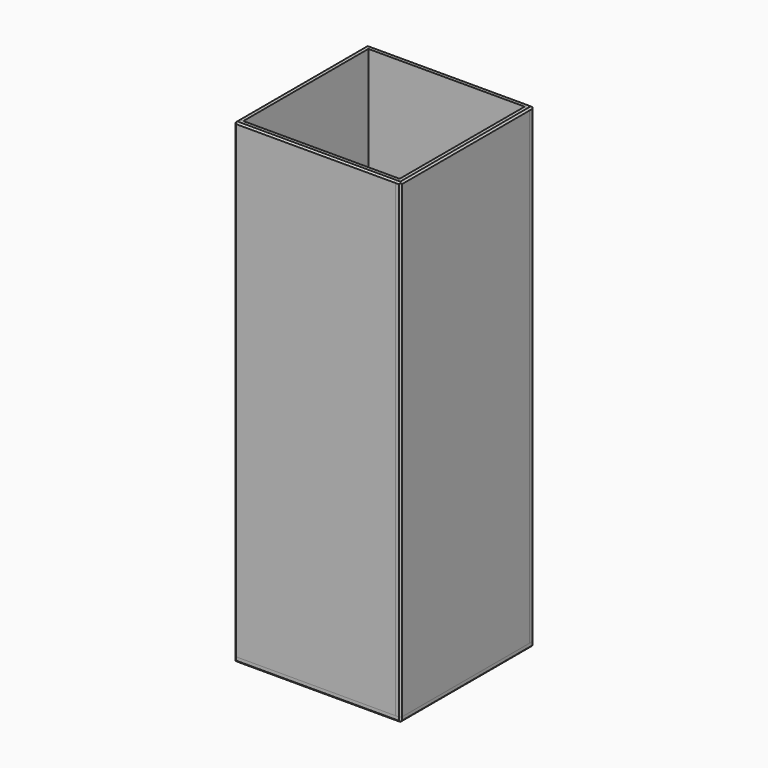
from build123d import *

# Parameters (mm, degrees)
F1_DEPTH   = 19.05
F3_DEPTH   = 19.05
F5_DEPTH   = 19.05
F7_DEPTH   = 19.05
F9_DEPTH   = 19.05
F10_SIZE   = 6.35
F10_2_SIZE = 6.35
F10_3_SIZE = 6.35
F10_4_SIZE = 6.35
F11_SIZE   = 6.35
F12_SIZE   = 6.35
F13_SIZE   = 6.35
F14_SIZE   = 6.35
F15_SIZE   = 6.35
F16_W      = 38.1
F16_H      = 88.9
F17_DEPTH  = 304.8
F19_DEPTH  = 19.05


with BuildPart() as f1:
    # F0 (on Top) → F1 (new body)
    with BuildSketch(Plane.XY):
        Polygon((-307.975, -314.325), (307.975, -314.325), (314.325, -307.975), (314.325, 307.975), (307.975, 314.325), (-307.975, 314.325), (-314.325, 307.975), (-314.325, -307.975), align=None)
    extrude(amount=-F1_DEPTH)

    # F15 (call 1 of 4: OpenCascade refuses the feature's edges together)
    f15_edges = [f1.edges().sort_by_distance(p)[0] for p in [
        (0, -314.325, -19.05),
    ]]
    chamfer(f15_edges, length=F15_SIZE)

    # F15#2 (call 2 of 4)
    f15_2_edges = [f1.edges().sort_by_distance(p)[0] for p in [
        (314.325, 0, -19.05),
    ]]
    chamfer(f15_2_edges, length=F15_SIZE)

    # F15#3 (call 3 of 4)
    f15_3_edges = [f1.edges().sort_by_distance(p)[0] for p in [
        (0, 314.325, -19.05),
    ]]
    chamfer(f15_3_edges, length=F15_SIZE)

    # F15#4 (call 4 of 4)
    f15_4_edges = [f1.edges().sort_by_distance(p)[0] for p in [
        (-314.325, 0, -19.05),
    ]]
    chamfer(f15_4_edges, length=F15_SIZE)

    # F16 (on face) → F17 (join)
    with BuildSketch(Plane.XY):
        with Locations((-149.225, 123.825)):
            Rectangle(F16_W, F16_H)
        with Locations((149.225, 123.825)):
            Rectangle(F16_W, F16_H)
        with Locations((-149.225, -123.825)):
            Rectangle(F16_W, F16_H)
        with Locations((149.225, -123.825)):
            Rectangle(F16_W, F16_H)
    extrude(amount=F17_DEPTH)


with BuildPart() as f3:
    # F2 (on face) → F3 (new body)
    with BuildSketch(Plane.XZ.offset(314.325)):
        Polygon((-314.325, 1771.65), (-314.325, 0), (295.275, 0), (295.275, 1778), (-307.975, 1778), align=None)
    extrude(amount=-F3_DEPTH)

    # F10#2
    f10_2_edges = [f3.edges().sort_by_distance(p)[0] for p in [
        (-6.35, -314.325, 1778),
    ]]
    chamfer(f10_2_edges, length=F10_2_SIZE)

    # F11
    f11_edges = [f3.edges().sort_by_distance(p)[0] for p in [
        (-314.325, -314.325, 885.825),
    ]]
    chamfer(f11_edges, length=F11_SIZE)


with BuildPart() as f5:
    # F4 (on face) → F5 (new body)
    with BuildSketch(Plane(origin=(0, 314.325, 0), x_dir=(-1, 0, 0), z_dir=(0, 1, 0))):
        Polygon((-314.325, 1771.65), (-314.325, 0), (295.275, 0), (295.275, 1778), (-307.975, 1778), align=None)
    extrude(amount=-F5_DEPTH)

    # F10#3
    f10_3_edges = [f5.edges().sort_by_distance(p)[0] for p in [
        (6.35, 314.325, 1778),
    ]]
    chamfer(f10_3_edges, length=F10_3_SIZE)

    # F13
    f13_edges = [f5.edges().sort_by_distance(p)[0] for p in [
        (314.325, 314.325, 885.825),
    ]]
    chamfer(f13_edges, length=F13_SIZE)


with BuildPart() as f7:
    # F6 (on face) → F7 (new body)
    with BuildSketch(Plane.YZ.offset(314.325)):
        Polygon((295.275, 1778), (-307.975, 1778), (-314.325, 1771.65), (-314.325, 0), (295.275, 0), align=None)
    extrude(amount=-F7_DEPTH)

    # F10
    f10_edges = [f7.edges().sort_by_distance(p)[0] for p in [
        (314.325, -6.35, 1778),
    ]]
    chamfer(f10_edges, length=F10_SIZE)

    # F12
    f12_edges = [f7.edges().sort_by_distance(p)[0] for p in [
        (314.325, -314.325, 885.825),
    ]]
    chamfer(f12_edges, length=F12_SIZE)


with BuildPart() as f9:
    # F8 (on face) → F9 (new body)
    with BuildSketch(Plane(origin=(-314.325, 0, 0), x_dir=(0, -1, 0), z_dir=(-1, 0, 0))):
        Polygon((295.275, 1778), (-307.975, 1778), (-314.325, 1771.65), (-314.325, 0), (295.275, 0), align=None)
    extrude(amount=-F9_DEPTH)

    # F10#4
    f10_4_edges = [f9.edges().sort_by_distance(p)[0] for p in [
        (-314.325, 6.35, 1778),
    ]]
    chamfer(f10_4_edges, length=F10_4_SIZE)

    # F14
    f14_edges = [f9.edges().sort_by_distance(p)[0] for p in [
        (-314.325, 314.325, 885.825),
    ]]
    chamfer(f14_edges, length=F14_SIZE)


with BuildPart() as f19:
    # F18 (on face) → F19 (new body)
    with BuildSketch(Plane.XY.offset(304.8)):
        Polygon((168.275, 295.275), (-168.275, 295.275), (-295.275, 168.275), (-295.275, -168.275), (-168.275, -295.275), (168.275, -295.275), (295.275, -168.275), (295.275, 168.275), align=None)
    extrude(amount=-F19_DEPTH)


solid = Compound([f1.part, f3.part, f5.part, f7.part, f9.part, f19.part])
